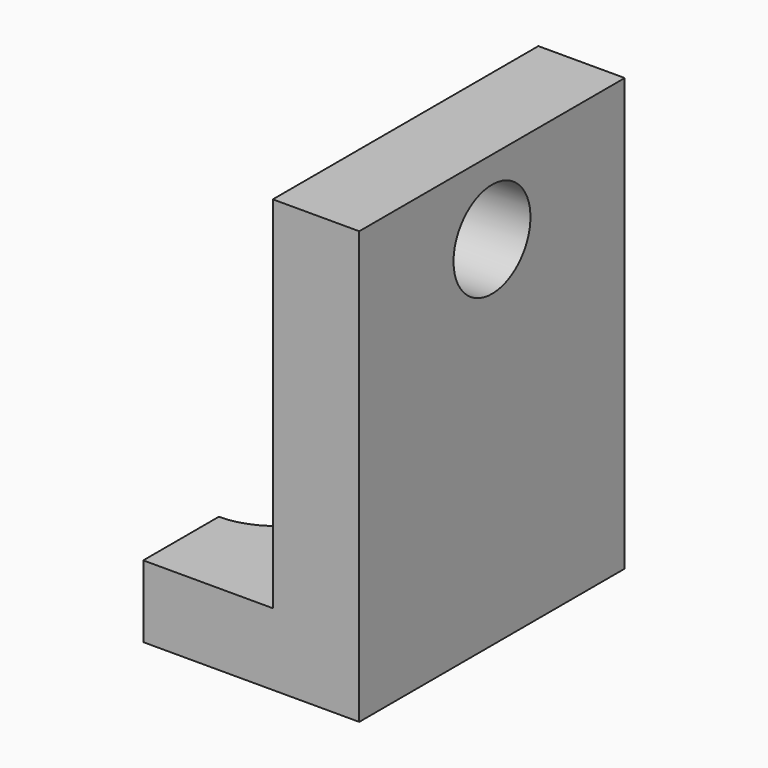
from build123d import *

# Parameters (mm, degrees)
F1_DEPTH = 117.094
F4_DEPTH = 25.4
F2_R     = 16.9643352209
F2_R_2   = 9.9441
F5_DEPTH = 65.278


with BuildPart() as f1:
    # F0 (on Front) → F1 (new body)
    with BuildSketch(Plane.XZ):
        Polygon((-76.2, 0), (0, 0), (0, 152.4), (-30.48, 152.4), (-30.48, 25.4), (-76.2, 25.4), align=None)
    extrude(amount=F1_DEPTH)

    # F3 (on face) → F4 (cut)
    with BuildSketch(Plane.XY.offset(25.4)):
        with BuildLine():
            ThreePointArc((-76.2, -83.7641331735), (-50.9828668265, -58.547), (-76.2, -33.3298668265))
            Line((-76.2, -33.3298668265), (-76.2, -83.7641331735))
        make_face()
    extrude(amount=-F4_DEPTH, mode=Mode.SUBTRACT)

    # F2 (on face) → F5 (cut)
    with BuildSketch(Plane(origin=(-30.48, 0, 0), x_dir=(0, -1, 0), z_dir=(-1, 0, 0))):
        with Locations((58.547, 126.1055916548)):
            Circle(F2_R)
        with Locations((58.547, 126.1055916548)):
            Circle(F2_R_2, mode=Mode.SUBTRACT)
        with Locations((58.547, 126.1055916548)):
            Circle(F2_R_2)
    extrude(amount=-F5_DEPTH, mode=Mode.SUBTRACT)


solid = f1.part
